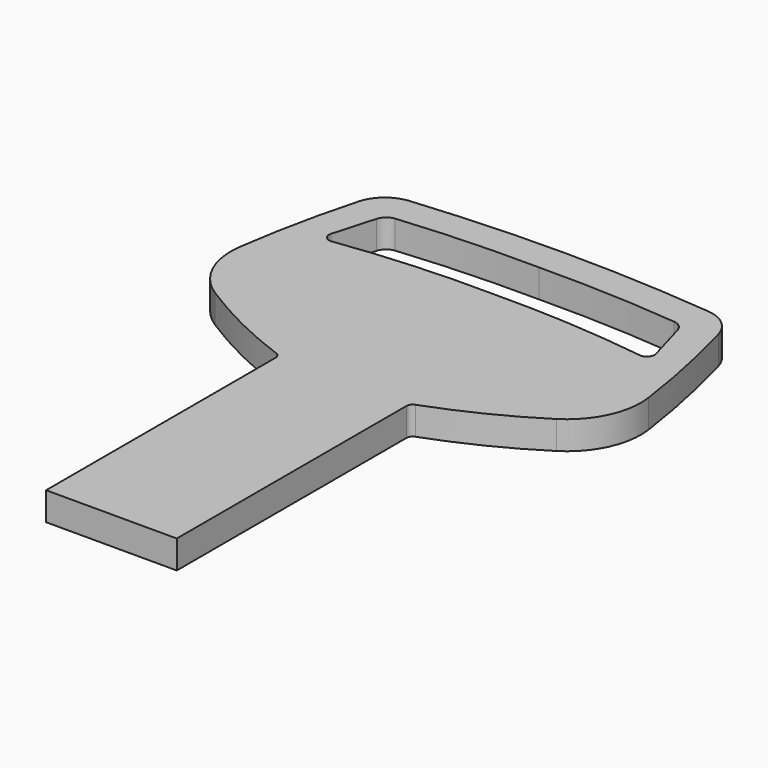
from build123d import *

# Parameters (mm, degrees)
F1_DEPTH = 1.1


with BuildPart() as f1:
    # F0 (on Top) → F1 (new body, symmetric)
    with BuildSketch(Plane.XY):
        with BuildLine():
            ThreePointArc((14.031143, 19.269842), (13.16234, 20.621777), (11.680151, 21.242791))
            ThreePointArc((11.680151, 21.242791), (5.846717, 21.660619), (0, 21.8))
            ThreePointArc((0, 21.8), (-5.846717, 21.660619), (-11.680151, 21.242791))
            ThreePointArc((-11.680151, 21.242791), (-13.16234, 20.621777), (-14.031143, 19.269842))
            ThreePointArc((-14.031143, 19.269842), (-15.137591, 14.692811), (-15.943786, 10.05347))
            ThreePointArc((-15.943786, 10.05347), (-15.467561, 6.823958), (-13.319483, 4.36585))
            ThreePointArc((-13.319483, 4.36585), (-9.479264, 2.204297), (-5.42829, 0.469591))
            ThreePointArc((-5.42829, 0.469591), (-5.19021, 0.286483), (-5.1, 0))
            Line((-5.1, 0), (-5.1, -22.4))
            Line((-5.1, -22.4), (5.1, -22.4))
            Line((5.1, -22.4), (5.1, 0))
            ThreePointArc((5.1, 0), (5.19021, 0.286483), (5.42829, 0.469591))
            ThreePointArc((5.42829, 0.469591), (9.479264, 2.204297), (13.319483, 4.36585))
            ThreePointArc((13.319483, 4.36585), (15.467561, 6.823958), (15.943786, 10.05347))
            ThreePointArc((15.943786, 10.05347), (15.137591, 14.692811), (14.031143, 19.269842))
        make_face()
        with BuildLine():
            ThreePointArc((10.876688, 18.87946), (11.42168, 18.652482), (11.743668, 18.15765))
            Line((11.743668, 18.15765), (12.678617, 14.871891))
            ThreePointArc((12.678617, 14.871891), (12.555083, 14.315529), (12.021881, 14.114297))
            ThreePointArc((12.021881, 14.114297), (6.024474, 14.701489), (0, 14.840765))
            ThreePointArc((0, 14.840765), (-6.024474, 14.701489), (-12.021881, 14.114297))
            ThreePointArc((-12.021881, 14.114297), (-12.555083, 14.315529), (-12.678617, 14.871891))
            Line((-12.678617, 14.871891), (-11.743668, 18.15765))
            ThreePointArc((-11.743668, 18.15765), (-11.42168, 18.652482), (-10.876688, 18.87946))
            ThreePointArc((-10.876688, 18.87946), (-5.444377, 19.250142), (0, 19.328687))
            ThreePointArc((0, 19.328687), (5.444377, 19.250142), (10.876688, 18.87946))
        make_face(mode=Mode.SUBTRACT)
    extrude(amount=F1_DEPTH, both=True)


solid = f1.part
